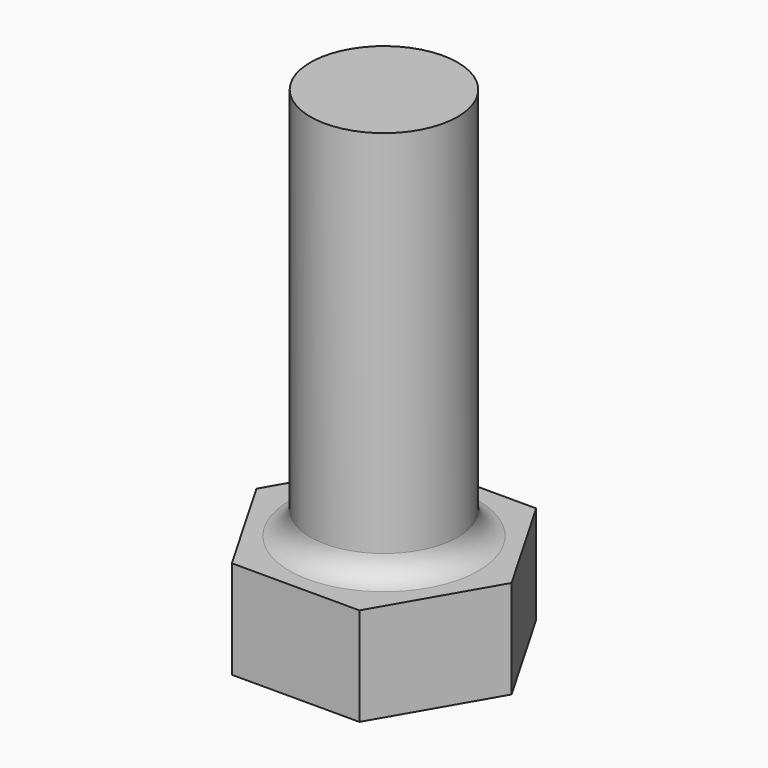
from build123d import *

# Parameters (mm, degrees)
F1_DEPTH = 6.35
F2_R     = 4.7625
F3_DEPTH = 25.4


with BuildPart() as f1:
    # F0 (on Top) → F1 (new body)
    with BuildSketch(Plane.XY):
        Polygon((4.124446, 7.14375), (-4.124446, 7.14375), (-8.248892, 0), (-4.124446, -7.14375), (4.124446, -7.14375), (8.248892, 0), align=None)
    extrude(amount=-F1_DEPTH)

    # F4 (on Front) → F5 (revolve)
    with BuildSketch(Plane.XZ):
        with BuildLine():
            ThreePointArc((6.119548, 0), (5.218409, 0.526892), (4.766191, 1.467725))
            Line((4.766191, 1.467725), (4.766191, 0))
            Line((4.766191, 0), (6.119548, 0))
        make_face()
    revolve(axis=Axis((0, 0, 1.933048), (0, 0, 1)))


with BuildPart() as f3:
    # F2 (on face) → F3 (new body)
    with BuildSketch(Plane.XY):
        Circle(F2_R)
    extrude(amount=F3_DEPTH)


solid = Compound([f1.part, f3.part])
